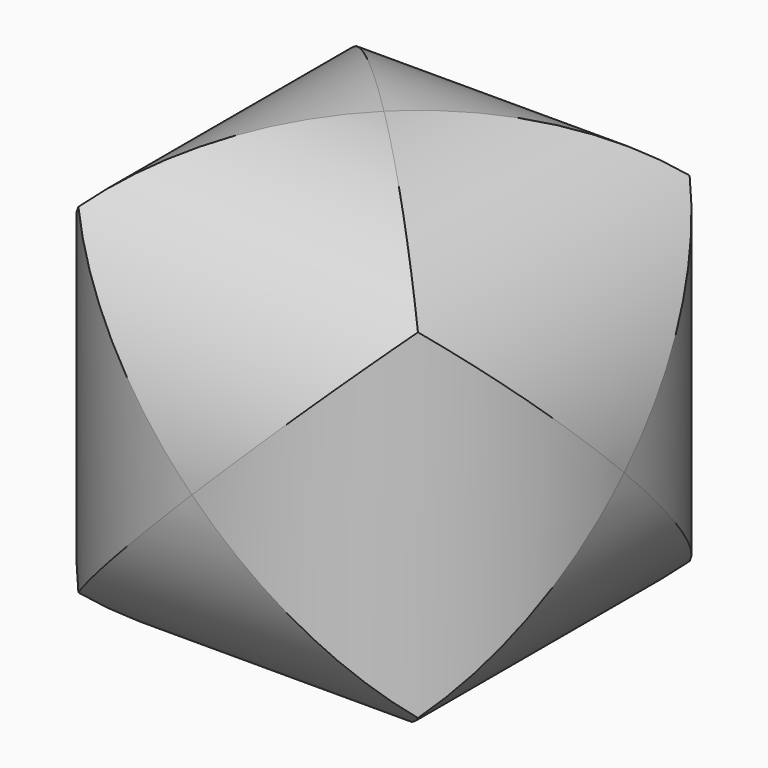
from build123d import *

# Parameters (mm, degrees)
F0_R     = 20
F1_DEPTH = 30
F4_COUNT = 3


with BuildPart() as f1:
    # F0 (on Front) → F1 (new body, symmetric)
    with BuildSketch(Plane.XZ):
        Circle(F0_R)
    extrude(amount=F1_DEPTH, both=True)


with BuildPart() as f4_1:
    # F4: instance of F1
    add(f1.part.rotate(Axis((20, -20, 20), (0.5773502692, -0.5773502692, 0.5773502692)), 1 * 360 / F4_COUNT))


with BuildPart() as f4_2:
    # F4: instance of F1
    add(f1.part.rotate(Axis((20, -20, 20), (0.5773502692, -0.5773502692, 0.5773502692)), 2 * 360 / F4_COUNT))

    # F5: intersect F1, F4_1
    add(f1.part, mode=Mode.INTERSECT)
    add(f4_1.part, mode=Mode.INTERSECT)


solid = f4_2.part
